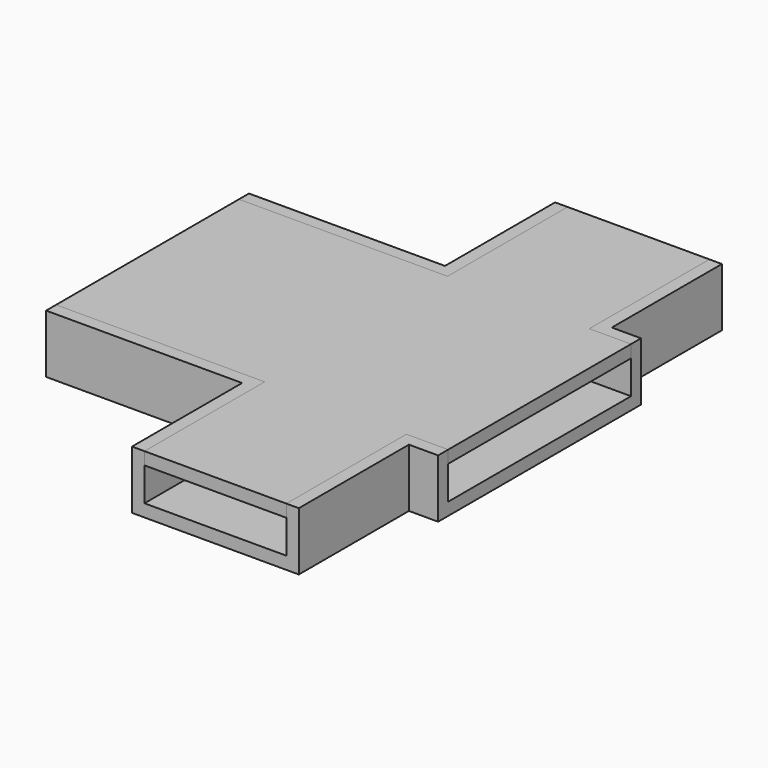
from build123d import *

# Parameters (mm, degrees)
PAD_DEPTH    = 5.5
THICKNESS_T  = 1.5
PAD001_DEPTH = 1.5


with BuildPart() as body:
    # Sketch → Pad (new body)
    with BuildSketch(Plane.XY):
        Polygon((-25, -13.7), (-25, 13.7), (0, 13.7), (0, 31.7), (17, 31.7), (17, 13.7), (22, 13.7), (22, -13.7), (17, -13.7), (17, -31.7), (0, -31.7), (0, -13.7), align=None)
    extrude(amount=PAD_DEPTH)

    # Thickness
    thickness_openings = [body.faces().sort_by_distance(p)[0] for p in [
        (1.721392, 0, 5.5),
        (-25, 0, 2.75),
        (8.5, -31.7, 2.75),
        (22, 0, 2.75),
        (8.5, 31.7, 2.75),
    ]]
    offset(amount=THICKNESS_T, openings=thickness_openings, kind=Kind.INTERSECTION)


with BuildPart() as deckel:
    # Sketch001 → Pad001 (new body)
    with BuildSketch(Plane.XY):
        Polygon((-25, -13.7), (-25, 13.7), (0, 13.7), (0, 31.7), (17, 31.7), (17, 13.7), (22, 13.7), (22, -13.7), (17, -13.7), (17, -31.7), (0, -31.7), (0, -13.7), align=None)
    extrude(amount=PAD001_DEPTH)


with BuildPart() as deckel_1:
    # Body001 placement: moved
    add(deckel.part.moved(Location((0, 0, 4))))


solid = Compound([body.part, deckel_1.part])
